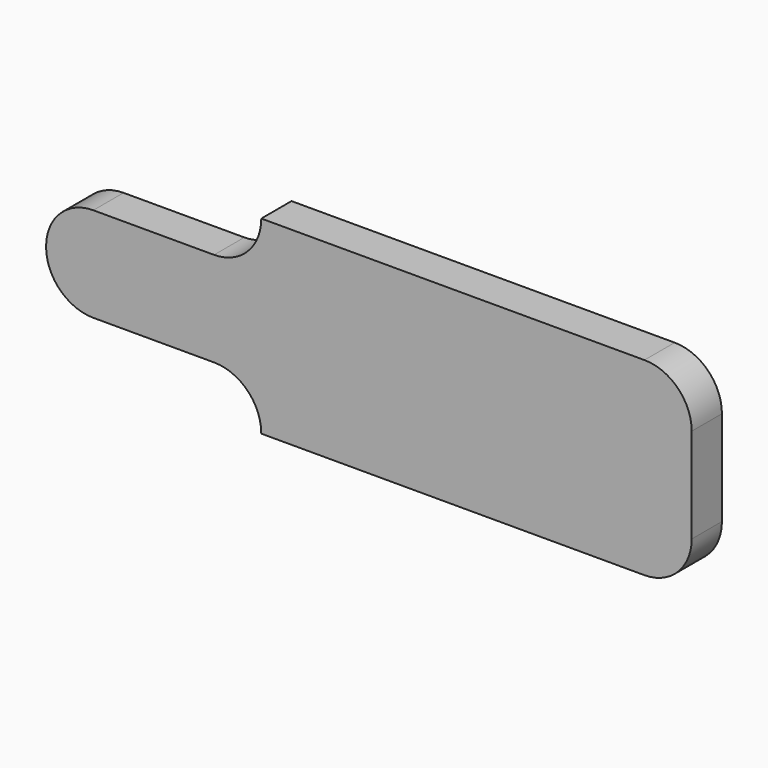
from build123d import *

# Parameters (mm, degrees)
F1_DEPTH = 5.08


with BuildPart() as f1:
    # F0 (on Front) → F1 (new body)
    with BuildSketch(Plane.XZ):
        with BuildLine():
            Line((0, 12.728863), (0, 12.714432))
            ThreePointArc((0, 12.714432), (-1.859872, 8.224304), (-6.35, 6.364432))
            Line((-6.35, 6.364432), (-22.579235, 6.364432))
            ThreePointArc((-22.579235, 6.364432), (-27.069363, 4.50456), (-28.929235, 0.014432))
            Line((-28.929235, 0.014432), (-28.929235, 0))
            Line((-28.929235, 0), (0, 0))
            Line((0, 0), (57.858475, 0))
            Line((57.858475, 0), (57.858475, 6.378863))
            ThreePointArc((57.858475, 6.378863), (55.998604, 10.868991), (51.508475, 12.728863))
            Line((51.508475, 12.728863), (45.129612, 12.728863))
            Line((45.129612, 12.728863), (0, 12.728863))
        make_face()
        with BuildLine():
            Line((0, 0), (-28.929235, 0))
            Line((-28.929235, 0), (-28.929235, -0.014432))
            ThreePointArc((-28.929235, -0.014432), (-27.069363, -4.50456), (-22.579235, -6.364432))
            Line((-22.579235, -6.364432), (-6.35, -6.364432))
            ThreePointArc((-6.35, -6.364432), (-1.859872, -8.224304), (0, -12.714432))
            Line((0, -12.714432), (0, -12.728863))
            Line((0, -12.728863), (45.129612, -12.728863))
            Line((45.129612, -12.728863), (51.508475, -12.728863))
            ThreePointArc((51.508475, -12.728863), (55.998604, -10.868991), (57.858475, -6.378863))
            Line((57.858475, -6.378863), (57.858475, 0))
            Line((57.858475, 0), (0, 0))
        make_face()
    extrude(amount=F1_DEPTH)


solid = f1.part
